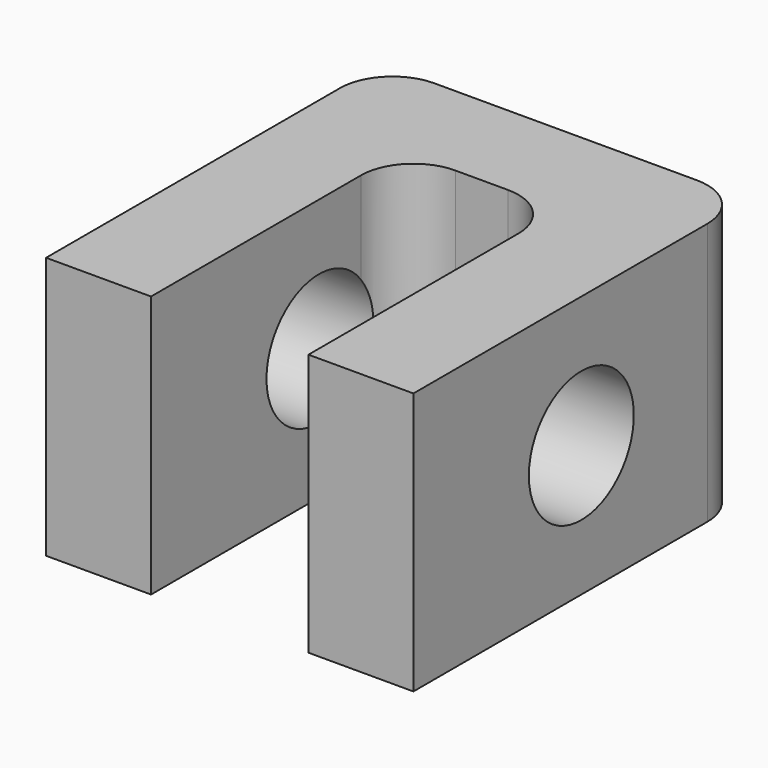
from build123d import *

# Parameters (mm, degrees)
F0_W     = 70
F0_H     = 80
F1_DEPTH = 50
F2_W     = 30
F2_H     = 60
F3_DEPTH = 64
F4_R     = 10
F5_R     = 12.5
F6_DEPTH = 96.7


with BuildPart() as f1:
    # F0 (on Top) → F1 (new body)
    with BuildSketch(Plane.XY):
        Rectangle(F0_W, F0_H)
    extrude(amount=F1_DEPTH)

    # F2 (on face) → F3 (cut)
    with BuildSketch(Plane.XY.offset(50)):
        with Locations((0, -10)):
            Rectangle(F2_W, F2_H)
    extrude(amount=-F3_DEPTH, mode=Mode.SUBTRACT)

    # F4
    f4_edges = [f1.edges().sort_by_distance(p)[0] for p in [
        (35, 40, 25),
        (-35, 40, 25),
        (-15, 20, 25),
        (15, 20, 25),
    ]]
    fillet(f4_edges, radius=F4_R)

    # F5 (on face) → F6 (cut)
    with BuildSketch(Plane(origin=(-35, 0, 0), x_dir=(0, -1, 0), z_dir=(-1, 0, 0))):
        with Locations((0, 25)):
            Circle(F5_R)
    extrude(amount=-F6_DEPTH, mode=Mode.SUBTRACT)


solid = f1.part
